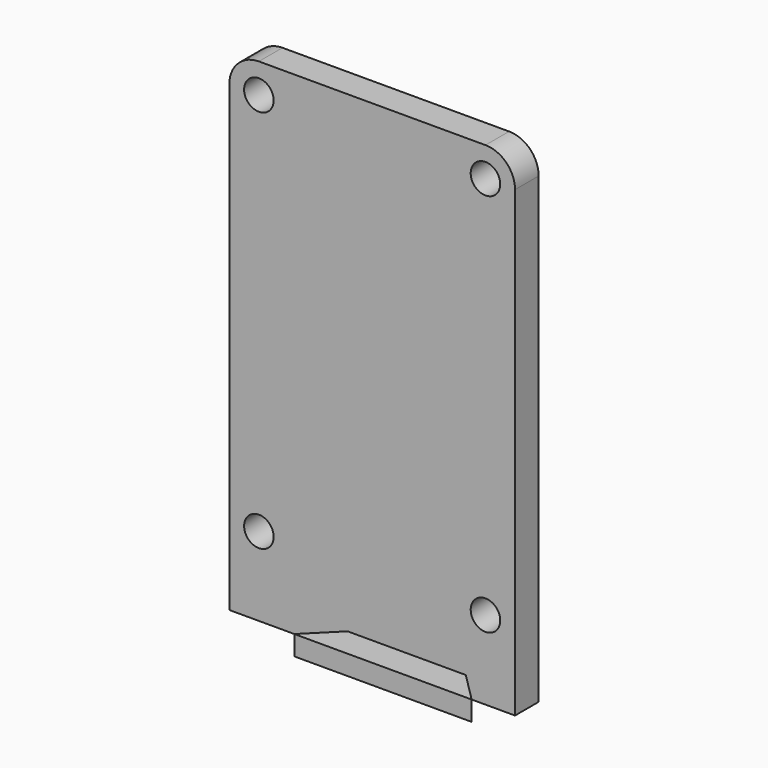
from build123d import *

# Parameters (mm, degrees)
F1_DEPTH = 2
F2_DEPTH = 50
F3_R     = 1.5
F4_DEPTH = 25
F5_R     = 3


with BuildPart() as f1:
    # F0 (on Top) → F1 (new body)
    with BuildSketch(Plane.XY):
        Polygon((3, 3), (0, 0), (18, 0), (15, 3), align=None)
    extrude(amount=F1_DEPTH)

    # F0 (on Top) → F2 (join)
    with BuildSketch(Plane.XY):
        Polygon((-9, 3), (3, 3), (15, 3), (20, 3), (20, 6), (-9, 6), align=None)
    extrude(amount=F2_DEPTH)

    # F3 (on face) → F4 (cut)
    with BuildSketch(Plane(origin=(0, 6, 0), x_dir=(-1, 0, 0), z_dir=(0, 1, 0))):
        with Locations((6, 8)):
            Circle(F3_R)
        with Locations((-17, 8)):
            Circle(F3_R)
        with Locations((-17, 47)):
            Circle(F3_R)
        with Locations((6, 47)):
            Circle(F3_R)
    extrude(amount=-F4_DEPTH, mode=Mode.SUBTRACT)

    # F5
    f5_edges = [f1.edges().sort_by_distance(p)[0] for p in [
        (-9, 4.5, 50),
        (20, 4.5, 50),
    ]]
    fillet(f5_edges, radius=F5_R)


solid = f1.part
